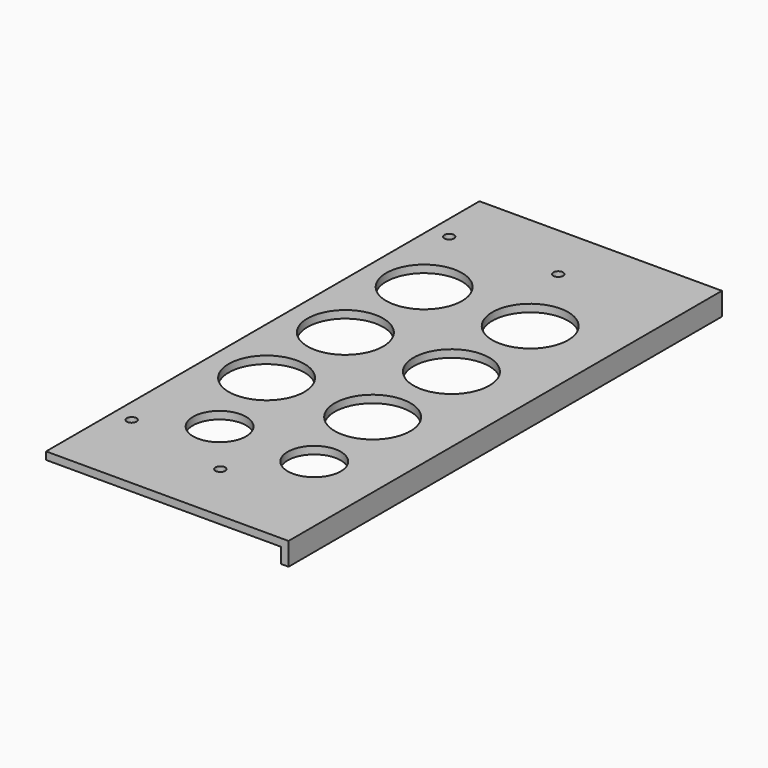
from build123d import *

# Parameters (mm, degrees)
SKETCH138_R           = 7
SKETCH138_R_2         = 10
EXTRUDE128_DEPTH      = 1
EXTRUDE128_DEPTH_BACK = 3
SKETCH117_R           = 1.28
EXTRUDE107_DEPTH      = 3
EXTRUDE104_DEPTH      = 143


with BuildPart() as extrude128:
    # Sketch138 → Extrude128 (new body, two sides)
    with BuildSketch(Plane(origin=(0, 0, -2), x_dir=(1, 0, 0), z_dir=(0, 0, -1))) as extrude128_sk:
        with Locations((28, -97)):
            Circle(SKETCH138_R)
        with Locations((53, -97)):
            Circle(SKETCH138_R)
        with Locations((22, -146)):
            Circle(SKETCH138_R_2)
        with Locations((50, -146)):
            Circle(SKETCH138_R_2)
        with Locations((22, -172)):
            Circle(SKETCH138_R_2)
        with Locations((50, -172)):
            Circle(SKETCH138_R_2)
        with Locations((22, -120)):
            Circle(SKETCH138_R_2)
        with Locations((50, -120)):
            Circle(SKETCH138_R_2)
    extrude(amount=EXTRUDE128_DEPTH)
    extrude(extrude128_sk.sketch, amount=-EXTRUDE128_DEPTH_BACK)


with BuildPart() as compound022:
    # Sketch117 → Extrude107 (new body)
    with BuildSketch(Plane(origin=(0, 0, 1), x_dir=(1, 0, 0), z_dir=(0, 0, -1))):
        with Locations((12, -88)):
            Circle(SKETCH117_R)
        with Locations((40, -82.25)):
            Circle(SKETCH117_R)
        with Locations((12, -192.75)):
            Circle(SKETCH117_R)
        with Locations((40, -193.75)):
            Circle(SKETCH117_R)
    extrude(amount=EXTRUDE107_DEPTH)

    # Compound022: union Extrude128
    add(extrude128.part)


with BuildPart() as hdmi002:
    # Sketch114 → Extrude104 (new body)
    with BuildSketch(Plane(origin=(0, 66, 0), x_dir=(-1, 0, 0), z_dir=(0, 1, 0))):
        Polygon((-7, -2), (-7, 0), (-71, 0), (-71, -6), (-69, -6), (-69, -2), align=None)
    extrude(amount=EXTRUDE104_DEPTH)

    # Cut013: cut Compound022
    add(compound022.part, mode=Mode.SUBTRACT)


solid = hdmi002.part
